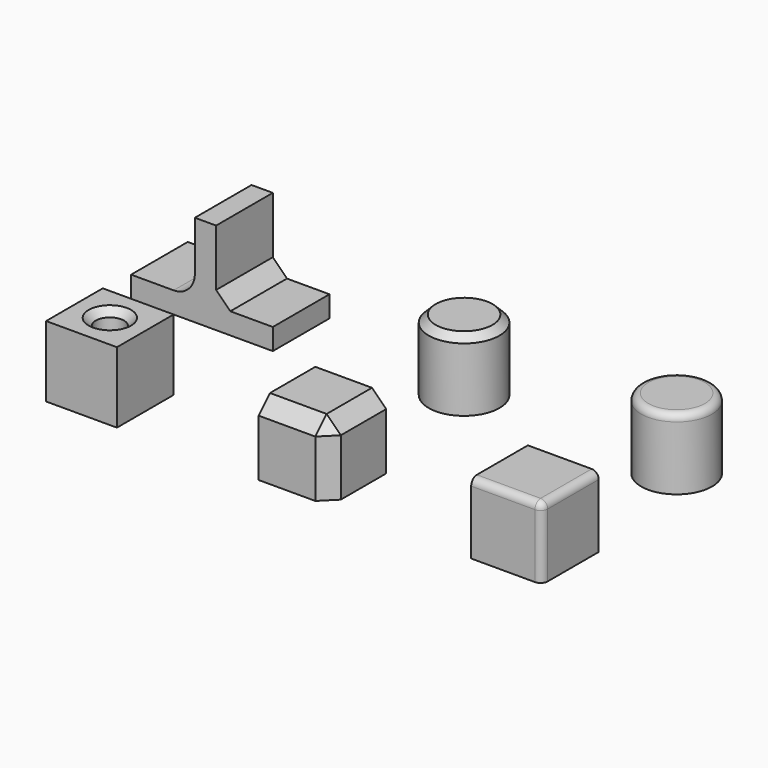
from build123d import *

# Parameters (mm, degrees)
BOX_W             = 10
BOX_H             = 10
BOX_DEPTH         = 10
FILLET_R          = 1
BOX002_W          = 10
BOX002_H          = 10
BOX002_DEPTH      = 10
CHAMFER_SIZE      = 2
CYLINDER_R        = 2
CYLINDER_DEPTH    = 20
BOX001_W          = 10
BOX001_H          = 10
BOX001_DEPTH      = 10
CHAMFER001_SIZE   = 1
CYLINDER001_R     = 5
CYLINDER001_DEPTH = 10
FILLET001_R       = 1
CYLINDER002_R     = 5
CYLINDER002_DEPTH = 10
CHAMFER002_SIZE   = 1
BOX004_W          = 3
BOX004_H          = 10
BOX004_DEPTH      = 10
BOX003_W          = 20
BOX003_H          = 10
BOX003_DEPTH      = 3
CHAMFER003_SIZE   = 2
FILLET002_R       = 3


with BuildPart() as fillet_body:
    # Box → Box (new body)
    with BuildSketch(Plane(origin=(60, 0, 0), x_dir=(1, 0, 0), z_dir=(0, 0, 1))):
        with Locations((5, 5)):
            Rectangle(BOX_W, BOX_H)
    extrude(amount=BOX_DEPTH)

    # Fillet
    fillet_edges = [fillet_body.edges().sort_by_distance(p)[0] for p in [
        (70, 0, 5),
        (70, 5, 10),
        (65, 0, 10),
    ]]
    fillet(fillet_edges, radius=FILLET_R)


with BuildPart() as chamfer_body:
    # Box002 → Box002 (new body)
    with BuildSketch(Plane(origin=(30, 0, 0), x_dir=(1, 0, 0), z_dir=(0, 0, 1))):
        with Locations((5, 5)):
            Rectangle(BOX002_W, BOX002_H)
    extrude(amount=BOX002_DEPTH)

    # Chamfer
    chamfer_edges = [chamfer_body.edges().sort_by_distance(p)[0] for p in [
        (40, 0, 5),
        (40, 5, 10),
        (35, 0, 10),
    ]]
    chamfer(chamfer_edges, length=CHAMFER_SIZE)


with BuildPart() as cilindre:
    # Cylinder → Cylinder (new body)
    with BuildSketch(Plane(origin=(5, 5, -2), x_dir=(1, 0, 0), z_dir=(0, 0, 1))):
        Circle(CYLINDER_R)
    extrude(amount=CYLINDER_DEPTH)


with BuildPart() as chamfer001:
    # Box001 → Box001 (new body)
    with BuildSketch(Plane.XY):
        with Locations((5, 5)):
            Rectangle(BOX001_W, BOX001_H)
    extrude(amount=BOX001_DEPTH)

    # Cut: cut Cilindre
    add(cilindre.part, mode=Mode.SUBTRACT)

    # Chamfer001
    chamfer001_edges = [chamfer001.edges().sort_by_distance(p)[0] for p in [
        (3, 5, 10),
    ]]
    chamfer(chamfer001_edges, length=CHAMFER001_SIZE)


with BuildPart() as fillet001:
    # Cylinder001 → Cylinder001 (new body)
    with BuildSketch(Plane(origin=(65, 30, 0), x_dir=(1, 0, 0), z_dir=(0, 0, 1))):
        Circle(CYLINDER001_R)
    extrude(amount=CYLINDER001_DEPTH)

    # Fillet001
    fillet001_edges = [fillet001.edges().sort_by_distance(p)[0] for p in [
        (60, 30, 10),
    ]]
    fillet(fillet001_edges, radius=FILLET001_R)


with BuildPart() as chamfer002:
    # Cylinder002 → Cylinder002 (new body)
    with BuildSketch(Plane(origin=(35, 30, 0), x_dir=(1, 0, 0), z_dir=(0, 0, 1))):
        Circle(CYLINDER002_R)
    extrude(amount=CYLINDER002_DEPTH)

    # Chamfer002
    chamfer002_edges = [chamfer002.edges().sort_by_distance(p)[0] for p in [
        (30, 30, 10),
    ]]
    chamfer(chamfer002_edges, length=CHAMFER002_SIZE)


with BuildPart() as cub:
    # Box004 → Box004 (new body)
    with BuildSketch(Plane(origin=(1, 25, 3), x_dir=(1, 0, 0), z_dir=(0, 0, 1))):
        with Locations((1.5, 5)):
            Rectangle(BOX004_W, BOX004_H)
    extrude(amount=BOX004_DEPTH)


with BuildPart() as fillet002:
    # Box003 → Box003 (new body)
    with BuildSketch(Plane(origin=(-8, 25, 0), x_dir=(1, 0, 0), z_dir=(0, 0, 1))):
        with Locations((10, 5)):
            Rectangle(BOX003_W, BOX003_H)
    extrude(amount=BOX003_DEPTH)

    # Fusion: union cub
    add(cub.part)

    # Chamfer003
    chamfer003_edges = [fillet002.edges().sort_by_distance(p)[0] for p in [
        (4, 30, 3),
    ]]
    chamfer(chamfer003_edges, length=CHAMFER003_SIZE)

    # Fillet002
    fillet002_edges = [fillet002.edges().sort_by_distance(p)[0] for p in [
        (1, 30, 3),
    ]]
    fillet(fillet002_edges, radius=FILLET002_R)


solid = Compound([fillet_body.part, chamfer_body.part, chamfer001.part, fillet001.part, chamfer002.part, fillet002.part])
